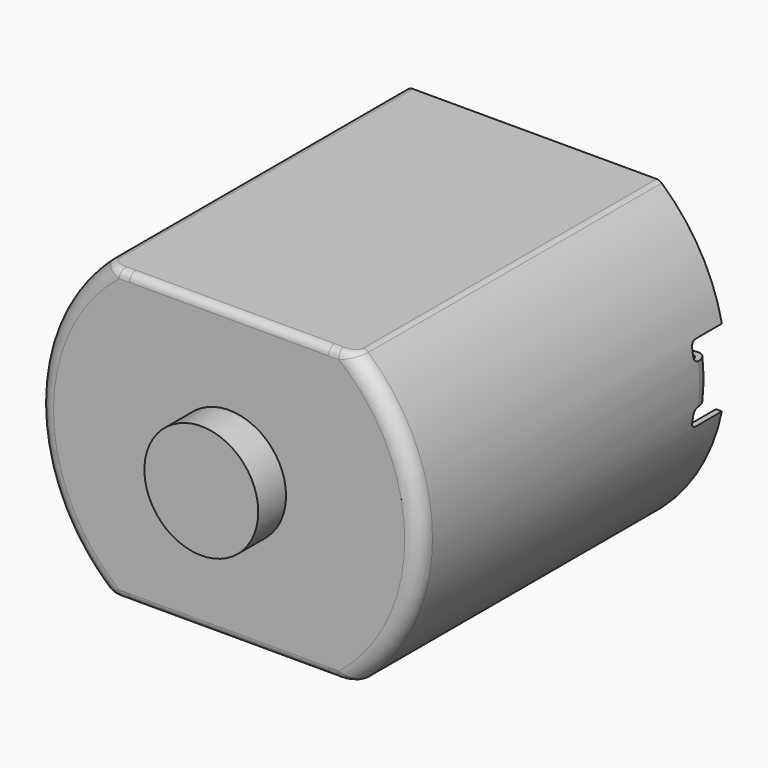
from build123d import *

# Parameters (mm, degrees)
PAD036_DEPTH        = 19.8
POCKET018_DEPTH     = 19.3
SKETCH066_W         = 2
SKETCH066_H         = 4
POCKET019_DEPTH     = 9.9
REVOLUTION001_ANGLE = 12
SKETCH070_R         = 2.95
PAD044_DEPTH        = 1.8
FILLET016_R         = 0.3
FILLET017_R         = 0.8
FILLET018_R         = 0.4


with BuildPart() as part:
    # Sketch050 → Pad036 (new body)
    with BuildSketch(Plane.XZ):
        with BuildLine():
            ThreePointArc((-6.4621977686, 7.5), (-9.9, 0), (-6.4621977686, -7.5))
            Line((-6.4621977686, -7.5), (6.4621977686, -7.5))
            ThreePointArc((6.4621977686, -7.5), (9.9, 0), (6.4621977686, 7.5))
            Line((-6.4621977686, 7.5), (6.4621977686, 7.5))
        make_face()
    extrude(amount=-PAD036_DEPTH)

    # Sketch065 (on Face6 of Pad036) → Pocket018 (cut)
    with BuildSketch(Plane(origin=(0, 19.8, 0), x_dir=(1, 0, 0), z_dir=(0, 1, 0))):
        with BuildLine():
            ThreePointArc((6.3498031466, -7.2), (9.6, 0), (6.3498031466, 7.2))
            Line((-6.3498031466, 7.2), (6.3498031466, 7.2))
            ThreePointArc((-6.3498031466, 7.2), (-9.6, 0), (-6.3498031466, -7.2))
            Line((-6.3498031466, -7.2), (6.3498031466, -7.2))
        make_face()
    extrude(amount=-POCKET018_DEPTH, mode=Mode.SUBTRACT)

    # Sketch066 → Pocket019 (cut, symmetric)
    with BuildSketch(Plane.YZ):
        with Locations((18.8, 0)):
            Rectangle(SKETCH066_W, SKETCH066_H)
    extrude(amount=POCKET019_DEPTH, both=True, mode=Mode.SUBTRACT)

    # Sketch029 → Revolution001 (revolve, symmetric)
    with BuildSketch(Plane.XY) as revolution001_sk:
        with BuildLine():
            Line((-9.2, 18.8), (-8.4, 18.8))
            Line((-8.4, 18.8), (-8.4, 18.5))
            Line((-8.4, 18.5), (-9.2, 18.5))
            ThreePointArc((-9.2, 18.5), (-9.4828427125, 18.3828427125), (-9.6, 18.1))
            Line((-9.6, 18.1), (-9.6, 17.8))
            Line((-9.9, 17.8), (-9.6, 17.8))
            Line((-9.9, 18.1), (-9.9, 17.8))
            ThreePointArc((-9.2, 18.8), (-9.6949747468, 18.5949747468), (-9.9, 18.1))
        make_face()
        with BuildLine():
            Line((9.2, 18.8), (8.4, 18.8))
            Line((8.4, 18.8), (8.4, 18.5))
            Line((8.4, 18.5), (9.2, 18.5))
            ThreePointArc((9.6, 18.1), (9.4828427125, 18.3828427125), (9.2, 18.5))
            Line((9.6, 18.1), (9.6, 17.8))
            Line((9.9, 17.8), (9.6, 17.8))
            Line((9.9, 18.1), (9.9, 17.8))
            ThreePointArc((9.9, 18.1), (9.6949747468, 18.5949747468), (9.2, 18.8))
        make_face()
    revolve(axis=Axis((0, 0, 0), (0, 1, 0)), revolution_arc=REVOLUTION001_ANGLE / 2)
    revolve(revolution001_sk.sketch, axis=Axis((0, 0, 0), (0, -1, 0)), revolution_arc=REVOLUTION001_ANGLE / 2)

    # Sketch070 (on Face5 of Revolution001) → Pad044 (join)
    with BuildSketch(Plane.XZ):
        Circle(SKETCH070_R)
    extrude(amount=PAD044_DEPTH)

    # Fillet016
    fillet016_edges = [part.edges().sort_by_distance(p)[0] for p in [
        (-9.696588, 17.8, -1.019153),
        (-9.542616, 17.8, -2),
        (-9.696588, 17.8, 1.019153),
        (-9.542616, 17.8, 2),
        (-8.353984, 18.65, 0.878039),
        (-8.353984, 18.65, -0.878039),
        (9.542616, 17.8, -2),
        (9.696588, 17.8, -1.019153),
        (9.696588, 17.8, 1.019153),
        (9.542616, 17.8, 2),
        (8.353984, 18.65, 0.878039),
        (8.353984, 18.65, -0.878039),
    ]]
    fillet(fillet016_edges, radius=FILLET016_R)

    # Fillet017
    fillet017_edges = [part.edges().sort_by_distance(p)[0] for p in [
        (9.9, 0, 0),
        (-9.9, 0, 0),
    ]]
    fillet(fillet017_edges, radius=FILLET017_R)

    # Fillet018
    fillet018_edges = [part.edges().sort_by_distance(p)[0] for p in [
        (0, 0, -7.5),
        (0, 0, 7.5),
    ]]
    fillet(fillet018_edges, radius=FILLET018_R)


with BuildPart() as part_1:
    # Body022 placement: moved
    add(part.part.moved(Location((0, 25.7, 0))))


solid = part_1.part
